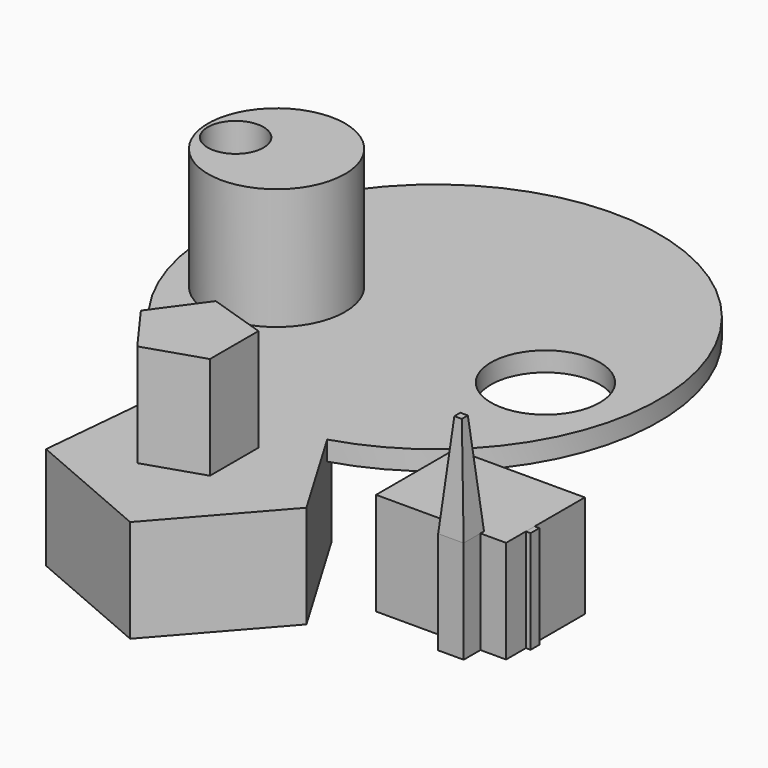
from build123d import *

# Parameters (mm, degrees)
F1_DEPTH  = 25.4
F3_DEPTH  = 25.4
F4_R      = 55.3696908203
F5_DEPTH  = 4.81279
F6_R      = 16.9357001353
F7_DEPTH  = 30
F8_W      = 6.2986317609
F8_H      = 6.295548482
F9_DEPTH  = 25.4
F9_TAPER  = 5
F11_DEPTH = 25.4
F13_R     = 13.4557054257
F14_DEPTH = 25.4
F15_R     = 6.8954007083
F16_DEPTH = 25.4
F17_W     = 6.2986317609
F17_H     = 6.295548482
F17_W_2   = 8.7175125246
F17_H_2   = 2.7040438727
F18_DEPTH = 25.4
F19_W     = 32.152608037
F19_H     = 24.3234690279
F20_DEPTH = 25.4


with BuildPart() as f1:
    # F0 (on Top) → F1 (new body)
    with BuildSketch(Plane.XY):
        Polygon((-17.3853552728, -54.3998687475), (5.4408759637, -28.4475700051), (-12.1875334984, 1.2811673093), (-45.9087209501, -6.2977613302), (-49.1211514741, -40.7105341421), align=None)
    extrude(amount=-F1_DEPTH)

    # F4 (on Top) → F5 (join)
    with BuildSketch(Plane.XY):
        with Locations((-25.0124167651, 49.3981949985)):
            Circle(F4_R)
    extrude(amount=-F5_DEPTH)

    # F6 (on face) → F7 (join)
    with BuildSketch(Plane.XY):
        with Locations((-56.8287335336, 40.1616469026)):
            Circle(F6_R)
    extrude(amount=F7_DEPTH)

    # F10 (on face) → F11 (join)
    with BuildSketch(Plane.XY):
        Polygon((-17.4606181681, -29.6451992292), (-17.4606181681, -14.6510579687), (-31.7208939202, -10.0176135031), (-40.5342290239, -22.1481285989), (-31.7208939202, -34.2786436947), align=None)
    extrude(amount=F11_DEPTH)

    # F13 (on face) → F14 (cut)
    with BuildSketch(Plane.XY):
        with Locations((8.7734460831, 41.2560999393)):
            Circle(F13_R)
    extrude(amount=-F14_DEPTH, mode=Mode.SUBTRACT)

    # F15 (on face) → F16 (cut)
    with BuildSketch(Plane.XY.offset(30)):
        with Locations((-65.9644976258, 38.9307104051)):
            Circle(F15_R)
    extrude(amount=-F16_DEPTH, mode=Mode.SUBTRACT)


with BuildPart() as f3:
    # F2 (on Top) → F3 (new body)
    with BuildSketch(Plane.XY):
        with BuildLine():
            ThreePointArc((37.1658151979, -30.5278390569), (48.7683803474, -2.7776239919), (22.9083637053, -18.1384017546))
            ThreePointArc((22.9083637053, -18.1384017546), (29.0679050453, -25.4484333392), (37.1658151979, -30.5278390569))
        make_face()
    extrude(amount=-F3_DEPTH)

    # F8 (on face) → F9 (join)
    with BuildSketch(Plane.XY):
        with Locations((35.2290758657, -17.881934666)):
            Rectangle(F8_W, F8_H)
    extrude(amount=F9_DEPTH, taper=F9_TAPER)

    # F17 (on face) → F18 (cut)
    with BuildSketch(Plane.XY):
        with BuildLine():
            ThreePointArc((37.1658151979, -30.5278390569), (48.7683803474, -2.7776239919), (22.9083637053, -18.1384017546))
            ThreePointArc((22.9083637053, -18.1384017546), (29.0679050453, -25.4484333392), (37.1658151979, -30.5278390569))
        make_face()
        with Locations((35.2290758657, -17.881934666)):
            Rectangle(F17_W, F17_H, mode=Mode.SUBTRACT)
        with Locations((41.5245714602, -8.3671226166)):
            Rectangle(F17_W_2, F17_H_2, mode=Mode.SUBTRACT)
    extrude(amount=-F18_DEPTH, mode=Mode.SUBTRACT)


with BuildPart() as f20:
    # F19 (on Top) → F20 (new body)
    with BuildSketch(Plane.XY):
        with Locations((28.6461897194, -3.6770114675)):
            Rectangle(F19_W, F19_H)
    extrude(amount=-F20_DEPTH)


solid = Compound([f1.part, f3.part, f20.part])
